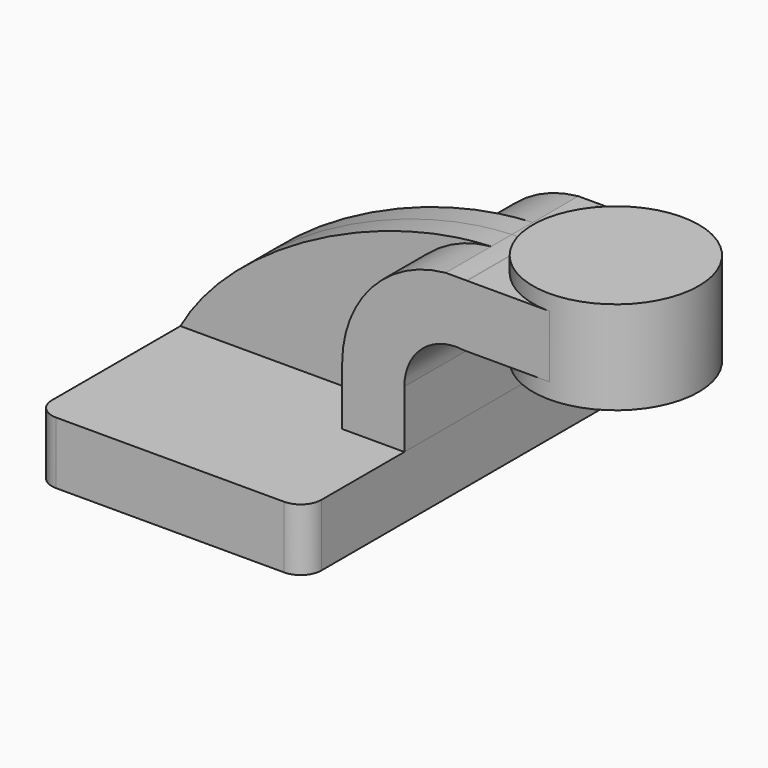
from build123d import *

# Parameters (mm, degrees)
F1_DEPTH = 63.5
F2_DEPTH = 7.9375
F3_DEPTH = 25.4
F5_R     = 6.35


with BuildPart() as f1:
    # F0 (on Front) → F1 (new body, symmetric)
    with BuildSketch(Plane.XZ):
        Polygon((41.275, -9.525), (41.275, 9.525), (22.225, 9.525), (-41.275, 9.525), (-41.275, -9.525), align=None)
    extrude(amount=F1_DEPTH, both=True)

    # F5
    f5_edges = [f1.edges().sort_by_distance(p)[0] for p in [
        (-41.275, -63.5, 0),
        (41.275, -63.5, 0),
        (41.275, 63.5, 0),
        (-41.275, 63.5, 0),
    ]]
    fillet(f5_edges, radius=F5_R)


with BuildPart() as f2:
    # F0 (on Front) → F2 (new body, symmetric)
    with BuildSketch(Plane.XZ):
        with BuildLine():
            Line((-41.275, 9.525), (22.225, 9.525))
            Line((22.225, 9.525), (22.225, 27.1594016492))
            ThreePointArc((22.225, 27.1594016492), (31.3306273777, 50.6778119354), (53.8994808814, 61.9328074424))
            add(Edge.make_bspline(
                [(-41.275, 9.525), (-25.5720066946, 37.8017577356), (18.8324201722, 60.5848298703), (53.8994808814, 61.9328074424)],
                knots=[0, 0, 0, 0, 107.5976264782, 107.5976264782, 107.5976264782, 107.5976264782], degree=3))
        make_face()
    extrude(amount=F2_DEPTH, both=True)


with BuildPart() as f3:
    # F0 (on Front) → F3 (new body, symmetric)
    with BuildSketch(Plane.XZ):
        with BuildLine():
            Line((22.225, 9.525), (41.275, 9.525))
            Line((41.275, 9.525), (41.275, 27.1594016492))
            ThreePointArc((41.275, 27.1594016492), (46.7477366788, 39.1514216124), (59.392611691, 42.8752))
            Line((59.392611691, 42.8752), (60.325, 42.8752))
            Line((60.325, 42.8752), (60.325, 61.9317360992))
            add(Edge.make_bspline(
                [(53.8994808814, 61.9328074424), (56.0804905793, 62.0166454402), (58.2253808503, 62.0175667651), (60.325, 61.9317360992)],
                knots=[107.5976264782, 107.5976264782, 107.5976264782, 107.5976264782, 114.2897033756, 114.2897033756, 114.2897033756, 114.2897033756], degree=3))
            ThreePointArc((53.8994808814, 61.9328074424), (31.3306273777, 50.6778119354), (22.225, 27.1594016492))
            Line((22.225, 27.1594016492), (22.225, 9.525))
        make_face()
        with BuildLine():
            Line((60.325, 61.9317360992), (60.325, 42.8752))
            Line((60.325, 42.8752), (85.7243504036, 42.8752))
            Line((85.7243504036, 42.8752), (85.7217589288, 61.9252))
            Line((85.7217589288, 61.9252), (60.4808992826, 61.9252))
            add(Edge.make_bspline(
                [(60.325, 61.9317360992), (60.3769942358, 61.9296106185), (60.4289607097, 61.9274319382), (60.4808992826, 61.9252)],
                knots=[114.2897033756, 114.2897033756, 114.2897033756, 114.2897033756, 114.4554236323, 114.4554236323, 114.4554236323, 114.4554236323], degree=3))
        make_face()
    extrude(amount=F3_DEPTH, both=True)


with BuildPart() as f4:
    # F0 (on Front) → F4 (revolve)
    with BuildSketch(Plane.XZ):
        Polygon((85.7217589288, 61.9252), (85.7243504036, 42.8752), (85.725, 38.1), (111.125, 38.1), (111.125, 66.675), (85.7211127877, 66.675), align=None)
    revolve(axis=Axis((85.7230563939, 0, 52.3875), (-0.0001360354, 0, 0.9999999907)))


solid = Compound([f1.part, f2.part, f3.part, f4.part])
